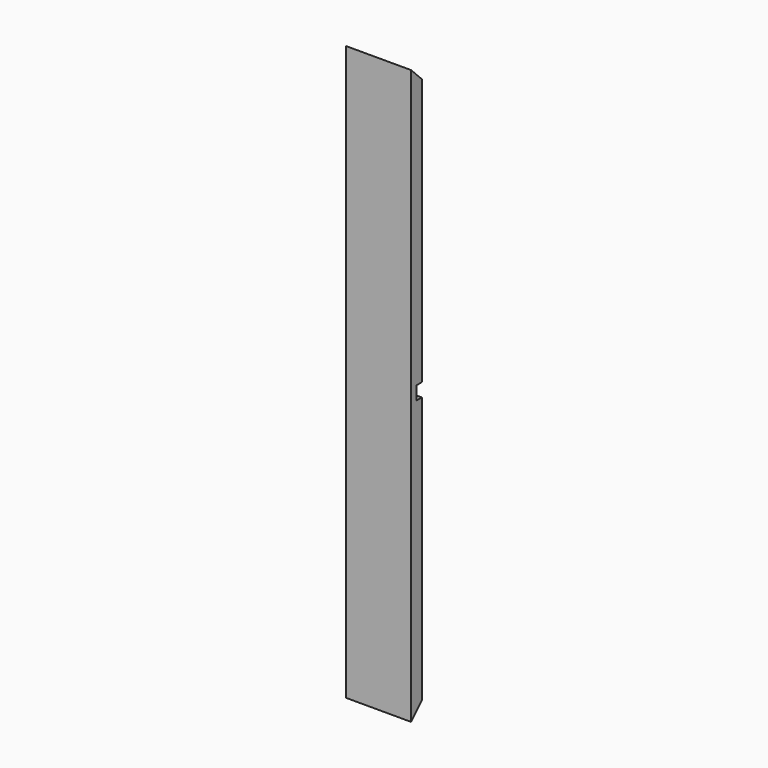
from build123d import *

# Parameters (mm, degrees)
F0_W     = 184.15
F0_H     = 38.1
F1_DEPTH = 1625.6
F3_DEPTH = 190.5
F4_W     = 184.15
F4_H     = 38.1
F5_DEPTH = 19.05


with BuildPart() as f1:
    # F0 (on Top) → F1 (new body)
    with BuildSketch(Plane.XY):
        Rectangle(F0_W, F0_H)
    extrude(amount=F1_DEPTH)

    # F2 (on face) → F3 (cut)
    with BuildSketch(Plane.YZ.offset(92.075)):
        Polygon((19.05, 1625.6), (-19.05, 1625.6), (19.05, 1587.5), align=None)
        Polygon((19.05, 38.1), (-19.05, 0), (19.05, 0), align=None)
    extrude(amount=-F3_DEPTH, mode=Mode.SUBTRACT)

    # F4 (on face) → F5 (cut)
    with BuildSketch(Plane(origin=(0, 19.05, 0), x_dir=(-1, 0, 0), z_dir=(0, 1, 0))):
        with Locations((0, 812.8)):
            Rectangle(F4_W, F4_H)
    extrude(amount=-F5_DEPTH, mode=Mode.SUBTRACT)


solid = f1.part
